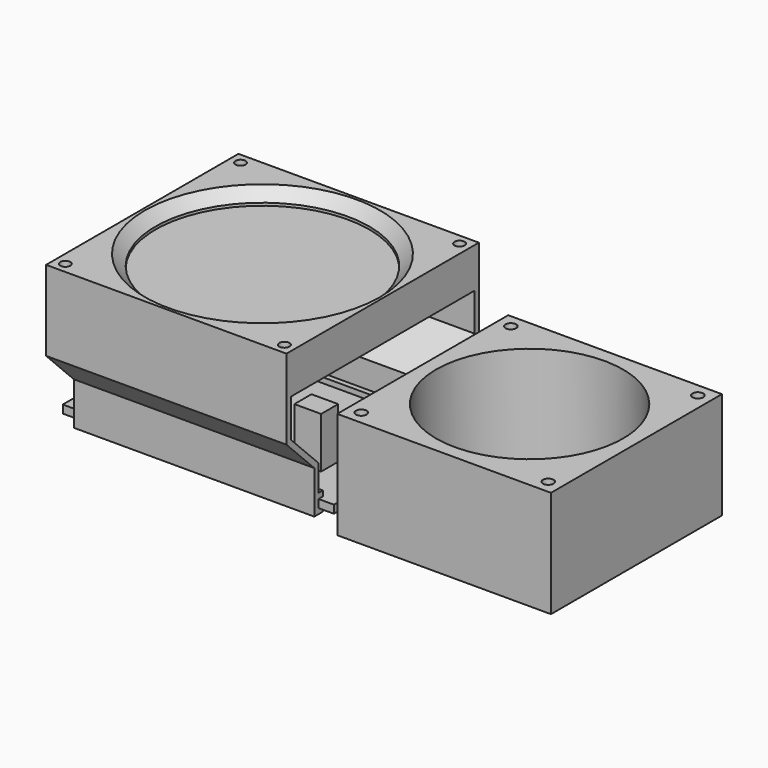
from build123d import *

# Parameters (mm, degrees)
F0_W      = 101.5
F0_H      = 60
F1_DEPTH  = 3
F2_W      = 10
F2_H      = 8
F3_DEPTH  = 19
F4_W      = 80
F4_H      = 80
F5_DEPTH  = 40
F6_D      = 70
F7_D      = 4
F9_W      = 90
F9_H      = 90
F9_R      = 40
F10_DEPTH = 5
F12_W     = 90
F12_H     = 90
F13_DEPTH = 10
F15_SIZE  = 4
F16_D     = 3.8
F18_DEPTH = 90


with BuildPart() as f1:
    # F0 (on Top) → F1 (new body)
    with BuildSketch(Plane.XY):
        Rectangle(F0_W, F0_H)
    extrude(amount=F1_DEPTH)

    # F2 (on face) → F3 (join)
    with BuildSketch(Plane.XY.offset(3)):
        with Locations((29.75, -12)):
            Rectangle(F2_W, F2_H)
        with Locations((9.75, -12)):
            Rectangle(F2_W, F2_H)
        with Locations((-10.25, -12)):
            Rectangle(F2_W, F2_H)
        with Locations((-10.25, 12)):
            Rectangle(F2_W, F2_H)
    extrude(amount=F3_DEPTH)


with BuildPart() as f5:
    # F4 (on Top) → F5 (new body)
    with BuildSketch(Plane.XY):
        with Locations((100, 0)):
            Rectangle(F4_W, F4_H)
    extrude(amount=F5_DEPTH)

    # F6 (through all)
    with Locations(Plane(origin=(0, 0, 0), x_dir=(1, 0, 0), z_dir=(0, 0, -1))):
        with Locations((100, 0)):
            Hole(F6_D / 2)

    # F7 (through all)
    with Locations(Plane(origin=(0, 0, 0), x_dir=(1, 0, 0), z_dir=(0, 0, -1))):
        with Locations((135, -35), (65, -35), (65, 35), (135, 35)):
            Hole(F7_D / 2)


with BuildPart() as f10:
    # F9 (on offset) → F10 (new body)
    with BuildSketch(Plane.XY.offset(57)):
        Rectangle(F9_W, F9_H)
        Circle(F9_R, mode=Mode.SUBTRACT)
    extrude(amount=-F10_DEPTH)

    # F12 (on face) → F13 (join)
    with BuildSketch(Plane(origin=(0, 0, 52), x_dir=(1, 0, 0), z_dir=(0, 0, -1))):
        Rectangle(F12_W, F12_H)
    extrude(amount=F13_DEPTH)

    # F15
    f15_edges = [f10.edges().sort_by_distance(p)[0] for p in [
        (-40, 0, 57),
    ]]
    chamfer(f15_edges, length=F15_SIZE)

    # F16 (through all)
    with Locations(Plane.XY.offset(57)):
        with Locations((-41, 41), (41, 41), (41, -41), (-41, -41)):
            Hole(F16_D / 2)

    # F17 (on face) → F18 (join, through all)
    with BuildSketch(Plane(origin=(-45, 0, 0), x_dir=(0, -1, 0), z_dir=(-1, 0, 0))):
        Polygon((45, 42), (43, 42), (43, 27.8284271247), (30, 14.8284271247), (30, 5), (28, 5), (28, 3), (30, 3), (30, 0), (28, 0), (28, -2), (32, -2), (32, 14), (45, 27), align=None)
        Polygon((-43, 27.8284271247), (-43, 42), (-45, 42), (-45, 27), (-32, 14), (-32, -2), (-28, -2), (-28, 0), (-30, 0), (-30, 3), (-28, 3), (-28, 5), (-30, 5), (-30, 14.8284271247), align=None)
    extrude(amount=-F18_DEPTH)


solid = Compound([f1.part, f5.part, f10.part])
